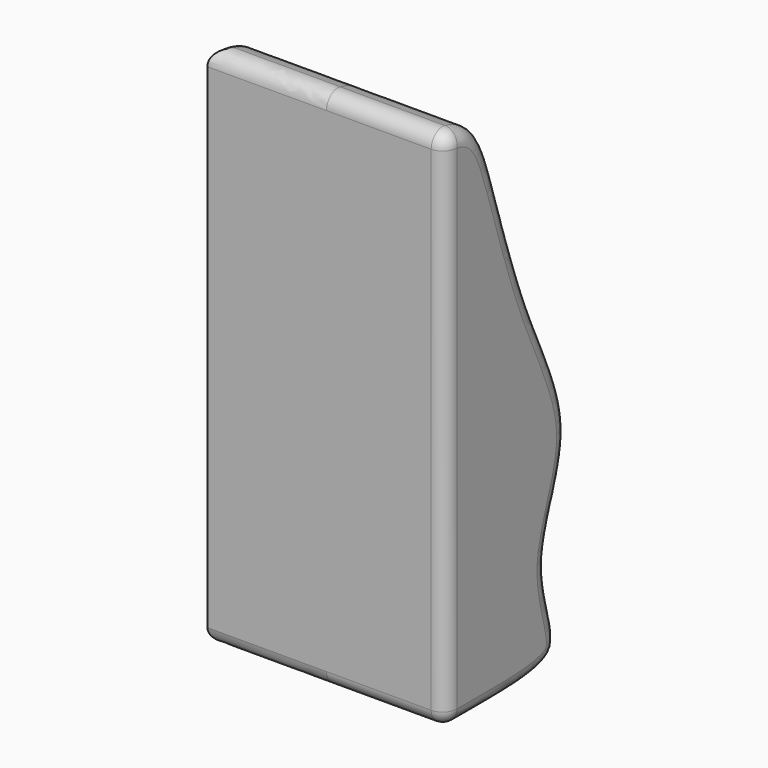
from build123d import *

# Parameters (mm, degrees)
PAD006_DEPTH = 50
FILLET100_R  = 6
FILLET101_R  = 3


with BuildPart() as part:
    # Sketch201 → Pad006 (new body, symmetric)
    with BuildSketch(Plane.YZ):
        with BuildLine():
            Line((-62, 180), (-62, -40))
            add(Edge.make_bspline(
                [(-62, -40), (-28.602824, -40), (9.375834, -41.535614), (-17.31007, 0.343139), (12.33455, 44.176135), (-17.721384, 95.58099), (-36.839079, 162.671751), (-44.692215, 180), (-62, 180)],
                knots=[0, 0, 0, 0, 0.166667, 0.333333, 0.5, 0.666667, 0.833333, 1, 1, 1, 1], degree=3))
        make_face()
    extrude(amount=PAD006_DEPTH, both=True)

    # Fillet100
    fillet100_edges = [part.edges().sort_by_distance(p)[0] for p in [
        (50, -62, 70),
        (50, 1.588759, 53.415026),
        (0, -62, 180),
        (-50, 1.588759, 53.415026),
        (0, -62, -40),
    ]]
    fillet(fillet100_edges, radius=FILLET100_R)

    # Sketch202 → Groove098 (revolve, cut)
    with BuildSketch(Plane.XY):
        with BuildLine():
            Line((0, 25), (0, -25))
            ThreePointArc((0, -25), (25, 0), (0, 25))
        make_face()
    revolve(axis=Axis((0, 0, 0), (0, 1, 0)), mode=Mode.SUBTRACT)

    # Fillet101
    fillet101_edges = [part.edges().sort_by_distance(p)[0] for p in [
        (-23.174151, -7.37844, 5.789418),
        (23.200364, -7.63595, -5.332483),
    ]]
    fillet(fillet101_edges, radius=FILLET101_R)


with BuildPart() as part_1:
    # Body060 placement: moved
    add(part.part.moved(Location((75, 63.953585, -66.173131))))


solid = part_1.part
